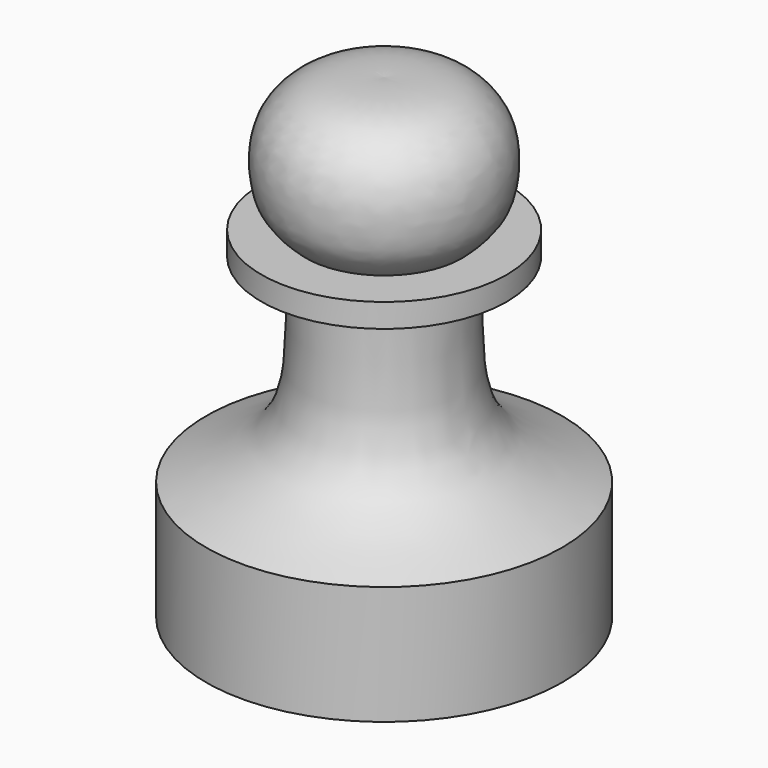
from build123d import *


with BuildPart() as f1:
    # F0 (on Front) → F1 (revolve)
    with BuildSketch(Plane.XZ):
        Polygon((0, 36.456387707), (0, 33.916387707), (8.3032539114, 33.916387707), (13.1206531078, 33.916387707), (13.1206531078, 36.456387707), (8.3377687261, 36.456387707), align=None)
        with BuildLine():
            Line((0, 33.916387707), (0, 0))
            Line((0, 0), (19.05, 0))
            Line((19.05, 0), (19.05, 12.7))
            add(Edge.make_bspline(
                [(19.05, 12.7), (15.6836506907, 14.0721710831), (9.3393919334, 16.6581797265), (8.0395309284, 25.3025272106), (8.2135911581, 30.9877751162), (8.3032539114, 33.916387707)],
                knots=[0, 0, 0, 0, 0.3540562683, 0.6672583189, 1, 1, 1, 1], degree=3))
            Line((8.3032539114, 33.916387707), (0, 33.916387707))
        make_face()
        with BuildLine():
            Line((0, 50.8), (0, 36.456387707))
            Line((0, 36.456387707), (8.3377687261, 36.456387707))
            add(Edge.make_bspline(
                [(8.3377687261, 36.456387707), (10.3048640053, 38.2170454213), (11.3878356839, 40.544651372), (11.392239415, 46.1874953748), (8.3974127327, 49.5973153016), (5.2773343635, 50.7991233773), (1.7471459357, 50.9378901576), (0, 50.8)],
                knots=[0, 0, 0, 0, 0.2154525637, 0.4253980018, 0.6169348664, 0.7858471635, 1, 1, 1, 1], degree=3))
        make_face()
    revolve(axis=Axis((0, 0, 25.4), (0, 0, 1)))


solid = f1.part
